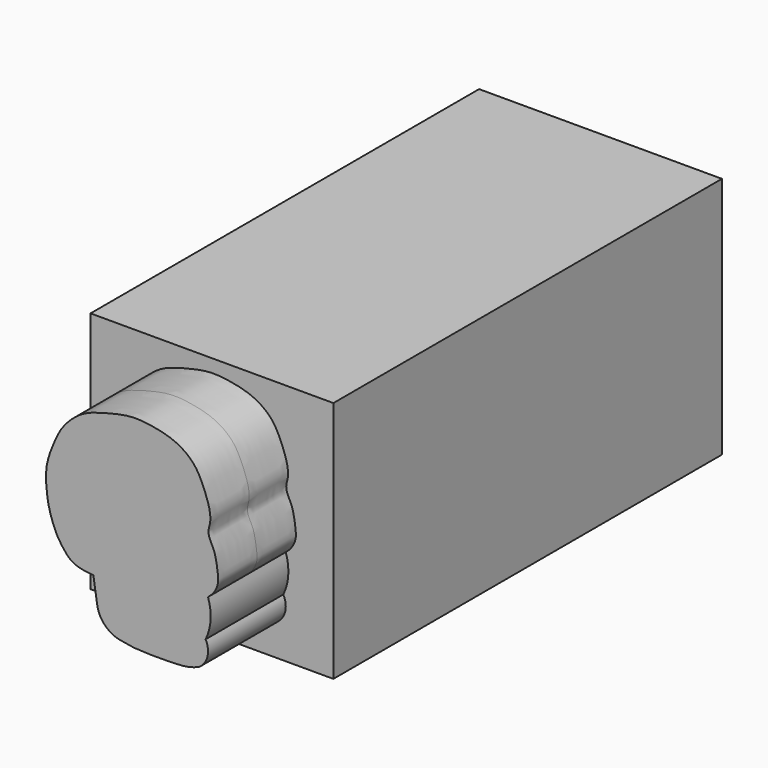
from build123d import *

# Parameters (mm, degrees)
F1_DEPTH = 2.54
F2_W     = 12.7
F2_H     = 12.7
F3_DEPTH = 25.4
F4_DEPTH = 2.54


with BuildPart() as f1:
    # F0 (on Front) → F1 (new body)
    with BuildSketch(Plane.XZ):
        with BuildLine():
            add(Edge.make_bspline(
                [(-8.4889251739, 4.0800906718), (-8.8617452243, 4.1165242433), (-9.549455901, 4.183730275), (-10.0810170658, 4.8122186645), (-10.4700618228, 5.3779262362), (-10.8262926419, 6.3991144078), (-10.9429418219, 7.1844969718), (-11.0158871328, 8.3407116722), (-10.5779986667, 9.4478173258), (-10.1581575437, 10.4209290534), (-9.1573668092, 11.3622487088), (-8.1761791241, 11.6678550706), (-7.5111279513, 11.8459317334), (-6.4625099417, 12.0701748884), (-5.5393691163, 11.9753640587), (-4.6005069955, 11.7955720879), (-3.8407265188, 11.4680933777), (-3.1320832722, 10.8803594483), (-2.7346732068, 10.0479566696), (-2.4090732542, 9.2011874209), (-2.3291116587, 8.5094854147), (-2.5469984012, 8.0137426061), (-2.2748012377, 7.4666814795), (-2.107834182, 7.1281217867), (-1.9612856318, 6.2495087964), (-1.9460609013, 5.7588071468), (-2.1935393675, 5.2842811702), (-2.3963698919, 5.106779428), (-2.493579872, 5.0241085701)],
                knots=[0, 0, 0, 0, 0.0436388988, 0.080647197, 0.1163243001, 0.1599685366, 0.1985805295, 0.2437815472, 0.2900696198, 0.3341140143, 0.3834628802, 0.4260907995, 0.4615969161, 0.5051503739, 0.5467014878, 0.58805419, 0.62675516, 0.6669618665, 0.7079369523, 0.7487712519, 0.7837114552, 0.8141258509, 0.8457740598, 0.8729577178, 0.9125939793, 0.9430911222, 0.9732042386, 1, 1, 1, 1], degree=3))
            Line((-8.4889251739, 4.0800906718), (-8.2895318578, 2.7808693492))
            ThreePointArc((-8.2895318578, 2.7808693492), (-7.8524188889, 1.937796189), (-6.9933836584, 1.5329523007))
            add(Edge.make_bspline(
                [(-6.9933836584, 1.5329523007), (-6.8192683867, 1.4962066313), (-6.4693196837, 1.4250927188), (-5.8000507936, 1.3956691424), (-5.1380240151, 1.3831694125), (-4.7549887094, 1.377305774), (-4.5544075169, 1.3928102558)],
                knots=[0, 0, 0, 0, 0.2332566315, 0.4948800533, 0.7555934486, 1, 1, 1, 1], degree=3))
            add(Edge.make_bspline(
                [(-4.5544075169, 1.3928102558), (-3.9892874978, 1.3936850005), (-3.4668862354, 1.4183520107), (-2.9626822181, 1.6524156041)],
                knots=[0, 0, 0, 0, 1.612756759, 1.612756759, 1.612756759, 1.612756759], degree=3))
            ThreePointArc((-2.9626822181, 1.6524156041), (-2.5207832683, 2.2763871381), (-2.620615739, 3.0344429639))
            ThreePointArc((-2.620615739, 3.0344429639), (-2.3579732862, 4.0165620949), (-2.493579872, 5.0241085701))
        make_face()
    extrude(amount=F1_DEPTH)

    # F2 (on Front) → F3 (join)
    with BuildSketch(Plane.XZ):
        with Locations((-6.35, 6.35)):
            Rectangle(F2_W, F2_H)
    extrude(amount=-F3_DEPTH)

    # F4 (add): a face of the model
    f4_faces = [f1.faces().sort_by_distance(p)[0] for p in [
        (-6.2292594125, -2.54, 6.8088283334),
    ]]
    extrude(f4_faces, amount=F4_DEPTH)


solid = f1.part
